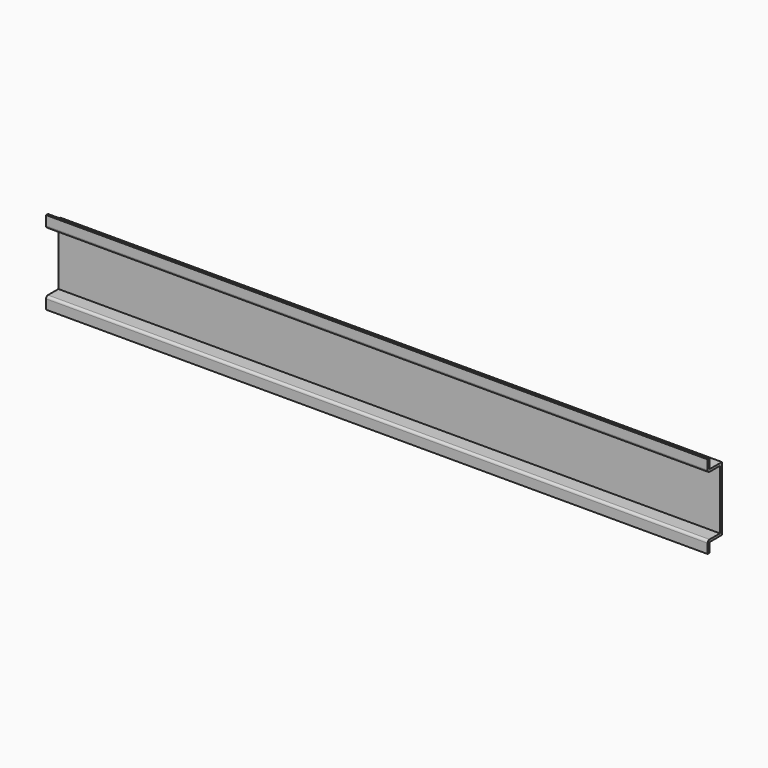
from build123d import *

# Parameters (mm, degrees)
PAD005_DEPTH = 139
FILLET_R     = 1
FILLET001_R  = 1


with BuildPart() as part:
    # Sketch005 → Pad005 (new body, symmetric)
    with BuildSketch(Plane.YZ):
        Polygon((0, 13.5), (0, -13.5), (-6.5, -13.5), (-6.5, -17.5), (-7.5, -17.5), (-7.5, -12.5), (-1, -12.5), (-1, 12.5), (-7.5, 12.5), (-7.5, 17.5), (-6.5, 17.5), (-6.5, 13.5), align=None)
    extrude(amount=PAD005_DEPTH, both=True)

    # Fillet
    fillet_edges = [part.edges().sort_by_distance(p)[0] for p in [
        (0, -7.5, -12.5),
    ]]
    fillet(fillet_edges, radius=FILLET_R)

    # Fillet001
    fillet001_edges = [part.edges().sort_by_distance(p)[0] for p in [
        (0, -7.5, 12.5),
    ]]
    fillet(fillet001_edges, radius=FILLET001_R)


solid = part.part
